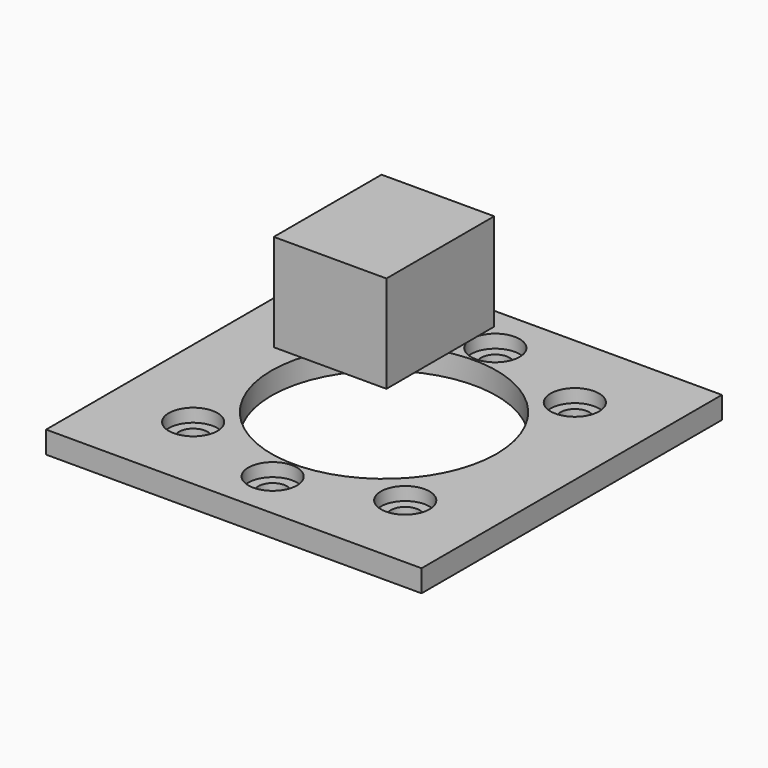
from build123d import *

# Parameters (mm, degrees)
SKETCH_W        = 85
SKETCH_H        = 85
SKETCH_R        = 25.5
SKETCH_R_2      = 3.25
PAD_DEPTH       = 5
SKETCH005_R     = 5.5
POCKET001_DEPTH = 5
SKETCH006_W     = 25.5
SKETCH006_H     = 30.5
SKETCH006_W_2   = 17.5
SKETCH006_H_2   = 22.5
PAD001_DEPTH    = 20
SKETCH007_W     = 25.5
SKETCH007_H     = 30.5
PAD002_DEPTH    = 2


with BuildPart() as mainbody:
    # Sketch → Pad (new body)
    with BuildSketch(Plane.XY):
        Rectangle(SKETCH_W, SKETCH_H)
        Circle(SKETCH_R, mode=Mode.SUBTRACT)
        with Locations((-24, 24)):
            Circle(SKETCH_R_2, mode=Mode.SUBTRACT)
        with Locations((0, 31.5)):
            Circle(SKETCH_R_2, mode=Mode.SUBTRACT)
        with Locations((24, 24)):
            Circle(SKETCH_R_2, mode=Mode.SUBTRACT)
        with Locations((0, -31.5)):
            Circle(SKETCH_R_2, mode=Mode.SUBTRACT)
        with Locations((24, -24)):
            Circle(SKETCH_R_2, mode=Mode.SUBTRACT)
        with Locations((-24, -24)):
            Circle(SKETCH_R_2, mode=Mode.SUBTRACT)
    extrude(amount=PAD_DEPTH)

    # Sketch005 → Pocket001 (cut)
    with BuildSketch(Plane.XY.offset(2)):
        with Locations((-24, 24)):
            Circle(SKETCH005_R)
        with Locations((24, -24)):
            Circle(SKETCH005_R)
        with Locations((0, 31.5)):
            Circle(SKETCH005_R)
        with Locations((24, 24)):
            Circle(SKETCH005_R)
        with Locations((-24, -24)):
            Circle(SKETCH005_R)
        with Locations((0, -31.5)):
            Circle(SKETCH005_R)
    extrude(amount=POCKET001_DEPTH, mode=Mode.SUBTRACT)


with BuildPart() as body:
    # Sketch006 → Pad001 (new body)
    with BuildSketch(Plane.XY.offset(20)):
        Rectangle(SKETCH006_W, SKETCH006_H)
        Rectangle(SKETCH006_W_2, SKETCH006_H_2, mode=Mode.SUBTRACT)
    extrude(amount=PAD001_DEPTH)

    # Sketch007 (on Face10 of Pad001) → Pad002 (join)
    with BuildSketch(Plane.XY.offset(40)):
        Rectangle(SKETCH007_W, SKETCH007_H)
    extrude(amount=PAD002_DEPTH)


solid = Compound([mainbody.part, body.part])
